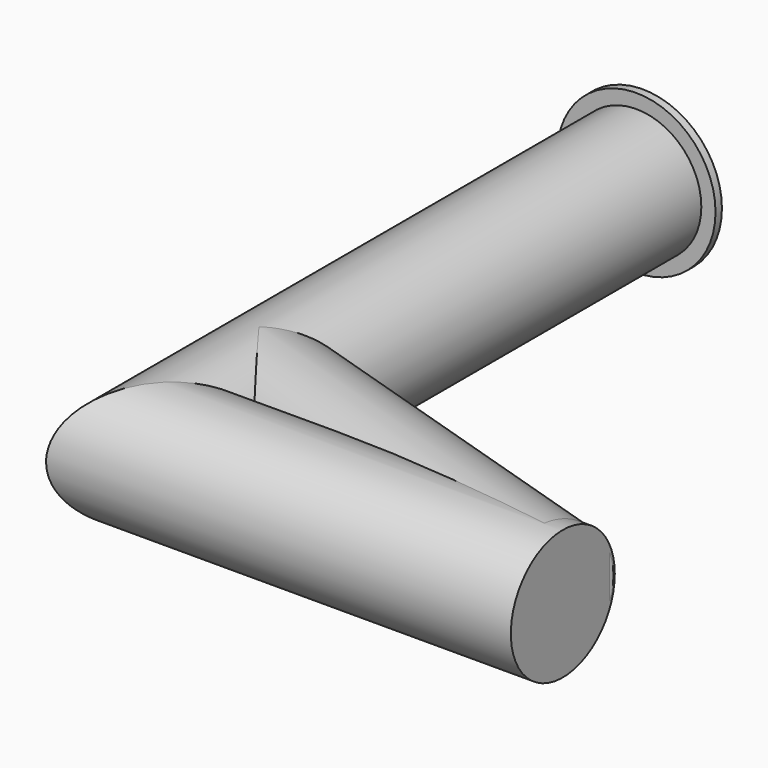
from build123d import *

# Parameters (mm, degrees)
F0_R      = 2.06375
F1_DEPTH  = 12.7
F1_FACE_R = 2.06375
F5_R      = 2.5146
F6_DEPTH  = 0.254


with BuildPart() as f1:
    # F0 (on Front) → F1 (new body)
    with BuildSketch(Plane.XZ):
        Circle(F0_R)
    extrude(amount=F1_DEPTH)

    # F3: sweep along a path in F2
    with BuildLine(Plane.XY) as f3_path:
        Line((0, 0), (0, -19.05))
        Line((0, -19.05), (12.7, -19.05))
    # F1_face (on face) → F3 (sweep)
    with BuildSketch(Plane(origin=(0, 0, 0), x_dir=(1, 0, 0), z_dir=(0, 1, 0))):
        Circle(F1_FACE_R)
    sweep(path=f3_path.line, transition=Transition.RIGHT)

    # F4: sweep along a path in F2
    with BuildLine(Plane.XY) as f4_path:
        Line((0, 0), (0, -15.24))
        Line((0, -15.24), (12.115027858, -19.05))
    # F1_face (on face) → F4 (sweep)
    with BuildSketch(Plane(origin=(0, 0, 0), x_dir=(1, 0, 0), z_dir=(0, 1, 0))):
        Circle(F1_FACE_R)
    sweep(path=f4_path.line, transition=Transition.RIGHT)

    # F5 (on Front) → F6 (join)
    with BuildSketch(Plane.XZ):
        Circle(F5_R)
    extrude(amount=F6_DEPTH)


solid = f1.part
